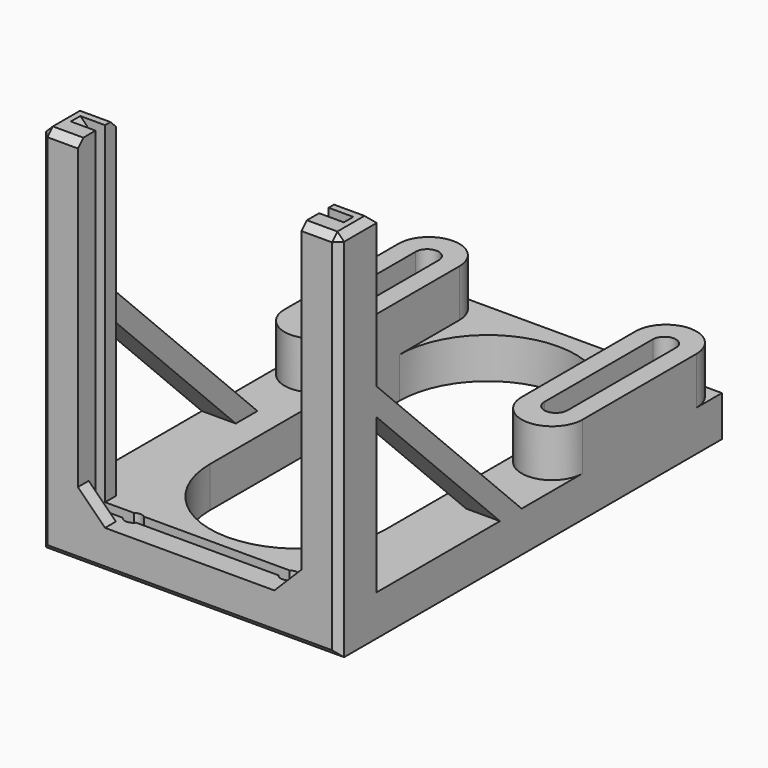
from build123d import *

# Parameters (mm, degrees)
SKETCH004_W     = 44
SKETCH004_H     = 70.703306
PAD003_DEPTH    = 6
SKETCH006_W     = 5.5
SKETCH006_H     = 7
PAD004_DEPTH    = 50
PAD007_DEPTH    = 5
PAD008_DEPTH    = 5
SKETCH014_R     = 1.25
HOLE003_DEPTH   = 10
PAD010_DEPTH    = 7
POCKET_DEPTH    = 20
SKETCH017_W     = 38.3
SKETCH017_H     = 1.75
POCKET001_DEPTH = 60
CHAMFER003_SIZE = 1
PAD011_DEPTH    = 1


with BuildPart() as part:
    # Sketch004 → Pad003 (new body)
    with BuildSketch(Plane.XY.offset(-5)):
        with Locations((0, -19.648347)):
            Rectangle(SKETCH004_W, SKETCH004_H)
        with BuildLine():
            ThreePointArc((-13, -35), (0, -48), (13, -35))
            Line((13, -35), (13, 0))
            ThreePointArc((13, 0), (0, 13), (-13, 0))
            Line((-13, -35), (-13, 0))
        make_face(mode=Mode.SUBTRACT)
    extrude(amount=PAD003_DEPTH)

    # Sketch006 → Pad004 (join)
    with BuildSketch(Plane.XY):
        with Locations((-19.25, -51.5)):
            Rectangle(SKETCH006_W, SKETCH006_H)
        with Locations((19.25, -51.5)):
            Rectangle(SKETCH006_W, SKETCH006_H)
    extrude(amount=PAD004_DEPTH)

    # Sketch011 → Pad007 (join)
    with BuildSketch(Plane(origin=(17, 0, -4), x_dir=(0, 1, 0), z_dir=(1, 0, 0))):
        Polygon((-21.25, 5), (-48.25, 32), (-48.25, 28), (-25.25, 5), align=None)
    extrude(amount=PAD007_DEPTH)

    # Sketch012 → Pad008 (join)
    with BuildSketch(Plane(origin=(-17, 0, -4), x_dir=(0, 1, 0), z_dir=(1, 0, 0))):
        Polygon((-48.25, 32), (-48.25, 28), (-25.25, 5), (-21.25, 5), align=None)
    extrude(amount=-PAD008_DEPTH)

    # Sketch014 → Hole003 (cut)
    with BuildSketch(Plane.XY.offset(-5)):
        with Locations((-11.5, -51)):
            Circle(SKETCH014_R)
        with Locations((11.5, -51)):
            Circle(SKETCH014_R)
    extrude(amount=HOLE003_DEPTH, mode=Mode.SUBTRACT)

    # Sketch016 → Pad010 (join)
    with BuildSketch(Plane.XY.offset(1)):
        with BuildLine():
            ThreePointArc((-13, 11), (-17.5, 15.5), (-22, 11))
            Line((-22, 11), (-22, -10))
            ThreePointArc((-22, -10), (-17.5, -14.5), (-13, -10))
            Line((-13, 11), (-13, -10))
        make_face()
        with BuildLine():
            ThreePointArc((22, 11), (17.5, 15.5), (13, 11))
            Line((13, 11), (13, -10))
            ThreePointArc((13, -10), (17.5, -14.5), (22, -10))
            Line((22, 11), (22, -10))
        make_face()
    extrude(amount=PAD010_DEPTH)

    # Sketch015 → Pocket (cut)
    with BuildSketch(Plane.XY.offset(-5)):
        with BuildLine():
            ThreePointArc((-15.8, 10.7), (-17.5, 12.4), (-19.2, 10.7))
            Line((-19.2, 10.7), (-19.2, -9.3))
            ThreePointArc((-19.2, -9.3), (-17.5, -11), (-15.8, -9.3))
            Line((-15.8, 10.7), (-15.8, -9.3))
        make_face()
        with BuildLine():
            ThreePointArc((19.2, 10.7), (17.5, 12.4), (15.8, 10.7))
            Line((15.8, 10.7), (15.8, -9.3))
            ThreePointArc((15.8, -9.3), (17.5, -11), (19.2, -9.3))
            Line((19.2, 10.7), (19.2, -9.3))
        make_face()
    extrude(amount=POCKET_DEPTH, mode=Mode.SUBTRACT)

    # Sketch017 → Pocket001 (cut)
    with BuildSketch(Plane.XY.offset(-2)):
        with Locations((0, -50.875)):
            Rectangle(SKETCH017_W, SKETCH017_H)
    extrude(amount=POCKET001_DEPTH, mode=Mode.SUBTRACT)

    # Chamfer003
    chamfer003_edges = [part.edges().sort_by_distance(p)[0] for p in [
        (-22, -55, 0.5),
        (-22, -55, 25.5),
        (22, -55, 0.5),
        (22, -55, 25.5),
        (-19.25, -55, 50),
        (-22, -51.5, 50),
        (-19.25, -48, 50),
        (19.25, -55, 50),
        (22, -51.5, 50),
        (19.25, -48, 50),
        (-19.15, -50.875, 50),
        (19.15, -50.875, 50),
        (0, -55, -5),
    ]]
    chamfer(chamfer003_edges, length=CHAMFER003_SIZE)

    # Sketch018 → Pad011 (join, symmetric)
    with BuildSketch(Plane.XZ.offset(54)):
        Polygon((-16.5, 0), (-16.5, 5), (-11.5, 0), align=None)
        Polygon((16.5, 0), (16.5, 5), (11.5, 0), align=None)
    extrude(amount=PAD011_DEPTH, both=True)


solid = part.part
